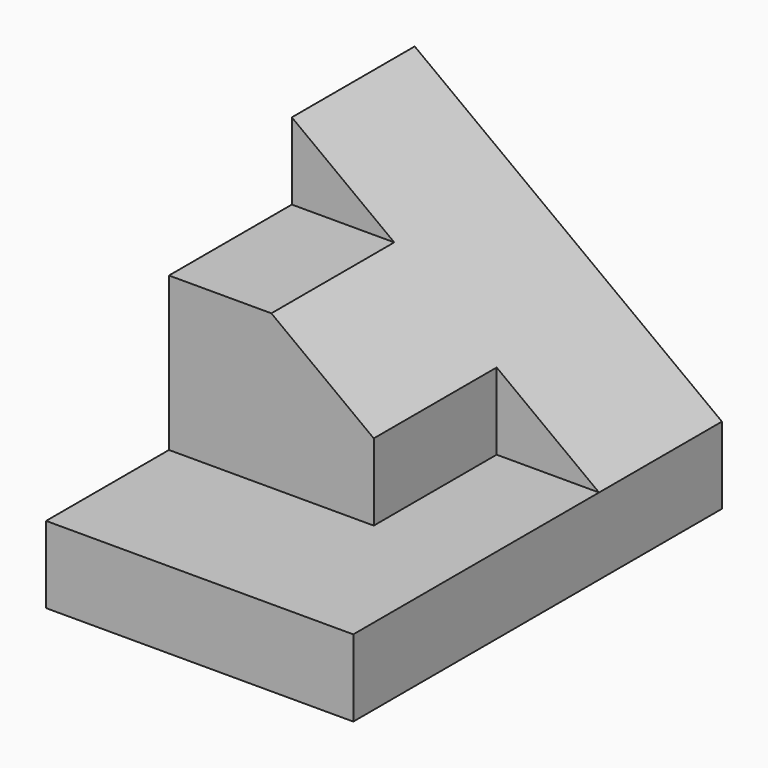
from build123d import *

# Parameters (mm, degrees)
F0_W     = 25.4
F0_H     = 38.1
F1_DEPTH = 6.35
F4_DEPTH = 25.4
F6_DEPTH = 12.7


with BuildPart() as f1:
    # F0 (on Top) → F1 (new body)
    with BuildSketch(Plane.XY):
        with Locations((12.7, 19.05)):
            Rectangle(F0_W, F0_H)
    extrude(amount=F1_DEPTH)

    # F3 (on offset) → F4 (join)
    with BuildSketch(Plane.XZ.offset(-12.7)):
        Polygon((0, 25.4), (0, 0), (25.4, 0), (25.4, 6.35), align=None)
    extrude(amount=-F4_DEPTH)

    # F5 (on face) → F6 (cut)
    with BuildSketch(Plane.XZ.offset(-12.7)):
        Polygon((0, 25.4), (0, 19.05), (8.466667, 19.05), align=None)
        Polygon((25.4, 6.35), (16.933333, 12.7), (16.933333, 6.35), align=None)
    extrude(amount=-F6_DEPTH, mode=Mode.SUBTRACT)


solid = f1.part
